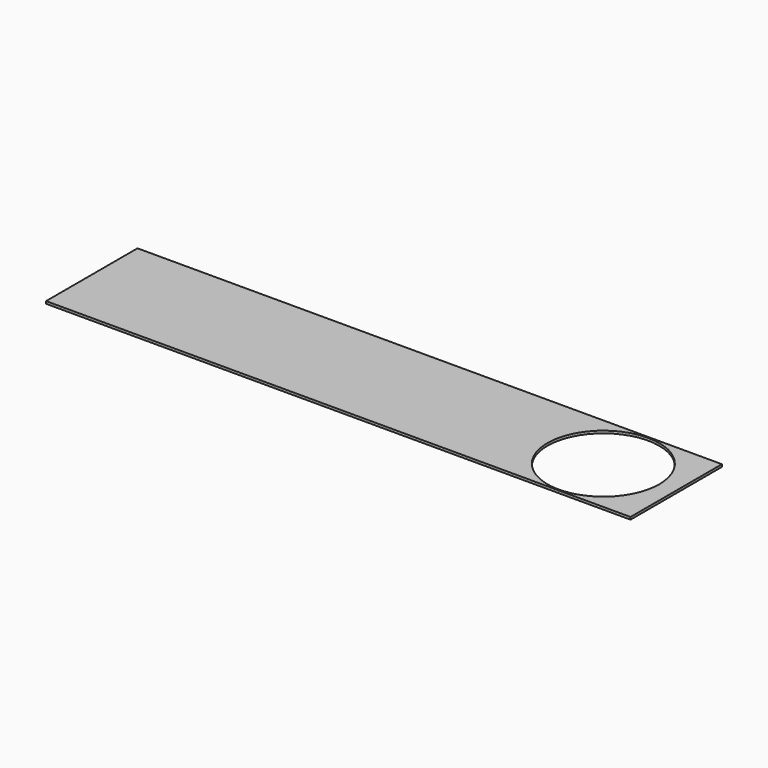
from build123d import *

# Parameters (mm, degrees)
F0_W     = 12030
F0_H     = 2352
F4_DEPTH = 50
F2_R     = 1150
F3_DEPTH = 50.001


with BuildPart() as f4:
    # F0 (on Top) → F4 (new body)
    with BuildSketch(Plane.XY):
        Rectangle(F0_W, F0_H)
    extrude(amount=F4_DEPTH)

    # F2 (on face) → F3 (cut, through all)
    with BuildSketch(Plane.XY.offset(50)):
        with Locations((4515, 0)):
            Circle(F2_R)
    extrude(amount=-F3_DEPTH, mode=Mode.SUBTRACT)


solid = f4.part
